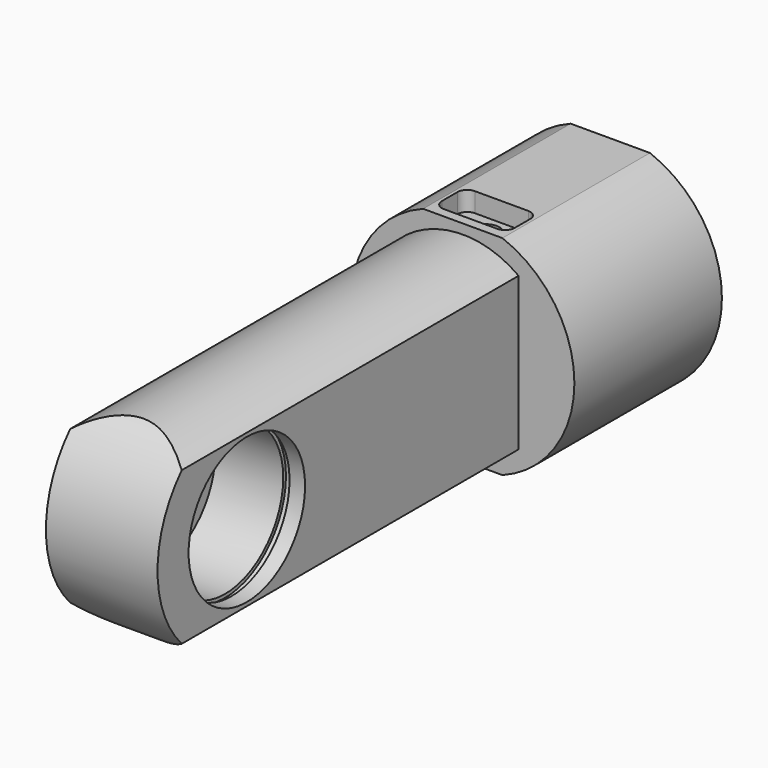
from build123d import *

# Parameters (mm, degrees)
F1_DEPTH  = 38
F3_DEPTH  = 93
F5_DEPTH  = 34.501
F6_R      = 19.5
F7_DEPTH  = 26
F8_R      = 15
F9_DEPTH  = 3.2
F10_R     = 15.7
F11_DEPTH = 1.3
F12_R     = 15
F13_DEPTH = 14
F14_R     = 12.8
F15_DEPTH = 16.001
F17_DEPTH = 4
F19_D     = 5.5
F19_DEPTH = 10
F19_TIP   = 1.6523667023
F21_DEPTH = 4
F23_D     = 5.5
F23_DEPTH = 8.2
F23_TIP   = 1.6523667023


with BuildPart() as f1:
    # F0 (on Front) → F1 (new body)
    with BuildSketch(Plane.XZ):
        with BuildLine():
            Line((8.1700673192, 21.5), (-8.1700673192, 21.5))
            ThreePointArc((-8.1700673192, 21.5), (-23, 0), (-8.1700673192, -21.5))
            Line((-8.1700673192, -21.5), (8.1700673192, -21.5))
            ThreePointArc((8.1700673192, -21.5), (23, 0), (8.1700673192, 21.5))
        make_face()
    extrude(amount=F1_DEPTH)

    # F2 (on face) → F3 (join)
    with BuildSketch(Plane.XZ.offset(38)):
        with BuildLine():
            Line((-11.5, 15.748015748), (-11.5, -15.748015748))
            ThreePointArc((-11.5, -15.748015748), (0, -19.5), (11.5, -15.748015748))
            Line((11.5, -15.748015748), (11.5, 15.748015748))
            ThreePointArc((11.5, 15.748015748), (0, 19.5), (-11.5, 15.748015748))
        make_face()
    extrude(amount=F3_DEPTH)

    # F4 (on face) → F5 (cut, through all)
    with BuildSketch(Plane.YZ.offset(11.5)):
        with BuildLine():
            Line((-108.4063023692, 22.9964109892), (-107.5936976308, 22.9964109892))
            ThreePointArc((-107.5936976308, 22.9964109892), (-108, 23), (-108.4063023692, 22.9964109892))
        make_face()
        with BuildLine():
            ThreePointArc((-110.9123462287, -22.8148688237), (-130.9656634273, 1.256305435), (-108.4063023692, 22.9964109892))
            Line((-108.4063023692, 22.9964109892), (-137.5913057301, 22.9964109892))
            Line((-137.5913057301, 22.9964109892), (-137.5913057301, -22.410525009))
            Line((-137.5913057301, -22.410525009), (-110.9123462287, -22.8148688237))
        make_face()
    extrude(amount=-F5_DEPTH, mode=Mode.SUBTRACT)

    # F6 (on face) → F7 (cut)
    with BuildSketch(Plane(origin=(0, 0, 0), x_dir=(-1, 0, 0), z_dir=(0, 1, 0))):
        Circle(F6_R)
    extrude(amount=-F7_DEPTH, mode=Mode.SUBTRACT)

    # F8 (on face) → F9 (cut)
    with BuildSketch(Plane.YZ.offset(11.5)):
        with Locations((-108, 0)):
            Circle(F8_R)
    extrude(amount=-F9_DEPTH, mode=Mode.SUBTRACT)

    # F10 (on face) → F11 (cut)
    with BuildSketch(Plane.YZ.offset(8.3)):
        with Locations((-108, 0)):
            Circle(F10_R)
    extrude(amount=-F11_DEPTH, mode=Mode.SUBTRACT)

    # F12 (on face) → F13 (cut)
    with BuildSketch(Plane.YZ.offset(7)):
        with Locations((-108, 0)):
            Circle(F12_R)
    extrude(amount=-F13_DEPTH, mode=Mode.SUBTRACT)

    # F14 (on face) → F15 (cut, through all)
    with BuildSketch(Plane.YZ.offset(-7)):
        with Locations((-108, 0)):
            Circle(F14_R)
    extrude(amount=-F15_DEPTH, mode=Mode.SUBTRACT)

    # F16 (on face) → F17 (cut)
    with BuildSketch(Plane.XY.offset(21.5)):
        with BuildLine():
            Line((5.5, -28), (-5.5, -28))
            ThreePointArc((-5.5, -28), (-6.9142135624, -28.5857864376), (-7.5, -30))
            Line((-7.5, -30), (-7.5, -34))
            ThreePointArc((-7.5, -34), (-6.9142135624, -35.4142135624), (-5.5, -36))
            Line((-5.5, -36), (5.5, -36))
            ThreePointArc((5.5, -36), (6.9142135624, -35.4142135624), (7.5, -34))
            Line((7.5, -34), (7.5, -30))
            ThreePointArc((7.5, -30), (6.9142135624, -28.5857864376), (5.5, -28))
        make_face()
    extrude(amount=-F17_DEPTH, mode=Mode.SUBTRACT)

    # F19
    with Locations(Plane.XY.offset(17.5)):
        with Locations((0, -32)):
            Hole(F19_D / 2, depth=F19_DEPTH)
            with Locations((0, 0, -(F19_DEPTH + F19_TIP / 2))):  # 118° drill point
                Cone(0, F19_D / 2, F19_TIP, mode=Mode.SUBTRACT)

    # F20 (on face) → F21 (cut)
    with BuildSketch(Plane(origin=(0, 0, -21.5), x_dir=(1, 0, 0), z_dir=(0, 0, -1))):
        with BuildLine():
            Line((5.5, 36), (-5.5, 36))
            ThreePointArc((-5.5, 36), (-6.9142135624, 35.4142135624), (-7.5, 34))
            Line((-7.5, 34), (-7.5, 30))
            ThreePointArc((-7.5, 30), (-6.9142135624, 28.5857864376), (-5.5, 28))
            Line((-5.5, 28), (5.5, 28))
            ThreePointArc((5.5, 28), (6.9142135624, 28.5857864376), (7.5, 30))
            Line((7.5, 30), (7.5, 34))
            ThreePointArc((7.5, 34), (6.9142135624, 35.4142135624), (5.5, 36))
        make_face()
    extrude(amount=-F21_DEPTH, mode=Mode.SUBTRACT)

    # F23
    with Locations(Plane(origin=(0, 0, -17.5), x_dir=(1, 0, 0), z_dir=(0, 0, -1))):
        with Locations((0, 32)):
            Hole(F23_D / 2, depth=F23_DEPTH)
            with Locations((0, 0, -(F23_DEPTH + F23_TIP / 2))):  # 118° drill point
                Cone(0, F23_D / 2, F23_TIP, mode=Mode.SUBTRACT)


solid = f1.part
